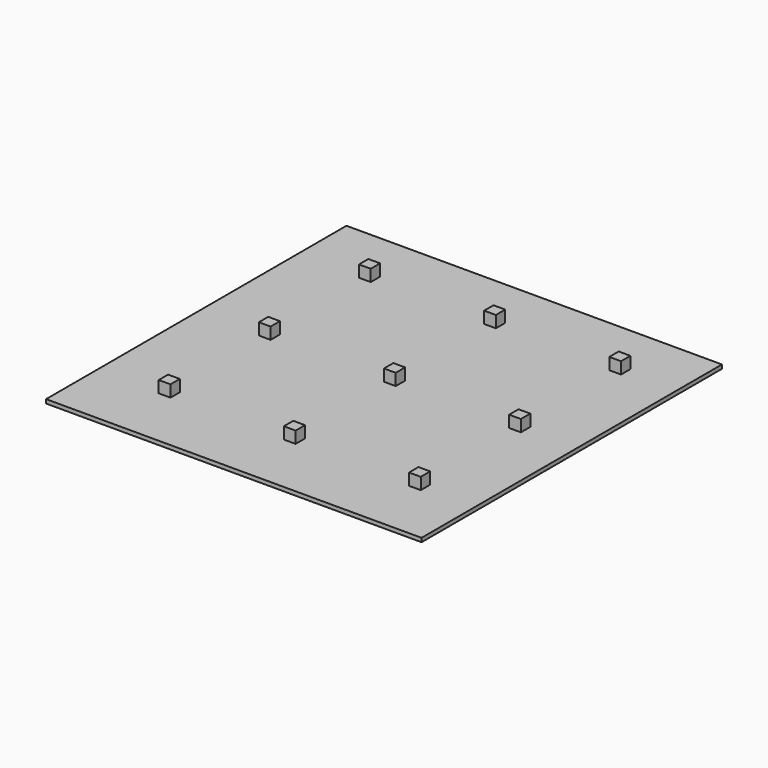
from build123d import *

# Parameters (mm, degrees)
F0_W     = 609.6
F0_H     = 609.6
F1_DEPTH = 6.35
F2_W     = 19.05
F2_H     = 19.05
F3_DEPTH = 19.05


with BuildPart() as f1:
    # F0 (on Top) → F1 (new body)
    with BuildSketch(Plane.XY):
        with Locations((304.8, 304.8)):
            Rectangle(F0_W, F0_H)
    extrude(amount=F1_DEPTH)

    # F2 (on face) → F3 (join)
    with BuildSketch(Plane.XY.offset(6.35)):
        with Locations((111.125, 111.125)):
            Rectangle(F2_W, F2_H)
        with Locations((111.125, 314.325)):
            Rectangle(F2_W, F2_H)
        with Locations((111.125, 517.525)):
            Rectangle(F2_W, F2_H)
        with Locations((314.325, 111.125)):
            Rectangle(F2_W, F2_H)
        with Locations((314.325, 314.325)):
            Rectangle(F2_W, F2_H)
        with Locations((314.325, 517.525)):
            Rectangle(F2_W, F2_H)
        with Locations((517.525, 111.125)):
            Rectangle(F2_W, F2_H)
        with Locations((517.525, 314.325)):
            Rectangle(F2_W, F2_H)
        with Locations((517.525, 517.525)):
            Rectangle(F2_W, F2_H)
    extrude(amount=F3_DEPTH)


solid = f1.part
